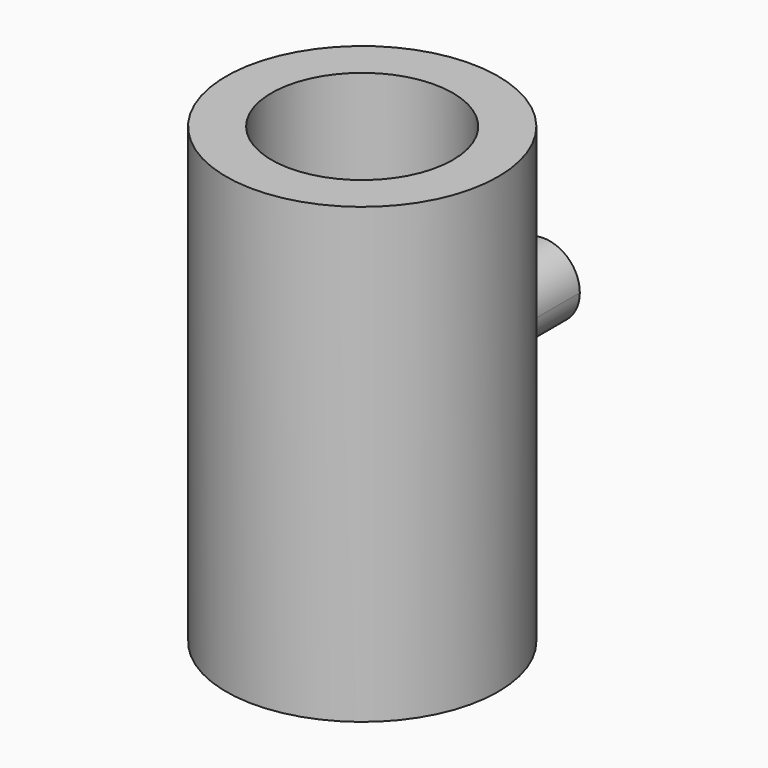
from build123d import *

# Parameters (mm, degrees)
F0_R     = 30
F0_R_2   = 20
F1_DEPTH = 100
F3_DEPTH = 50


with BuildPart() as f1:
    # F0 (on Top) → F1 (new body)
    with BuildSketch(Plane.XY):
        Circle(F0_R)
        Circle(F0_R_2, mode=Mode.SUBTRACT)
    extrude(amount=F1_DEPTH)

    # F2 (on Front) → F3 (join)
    with BuildSketch(Plane.XZ):
        with BuildLine():
            ThreePointArc((0, 42), (5.656854, 44.343146), (8, 50))
            ThreePointArc((8, 50), (-5.656854, 55.656854), (0, 42))
        make_face()
    extrude(amount=-F3_DEPTH)


solid = f1.part
